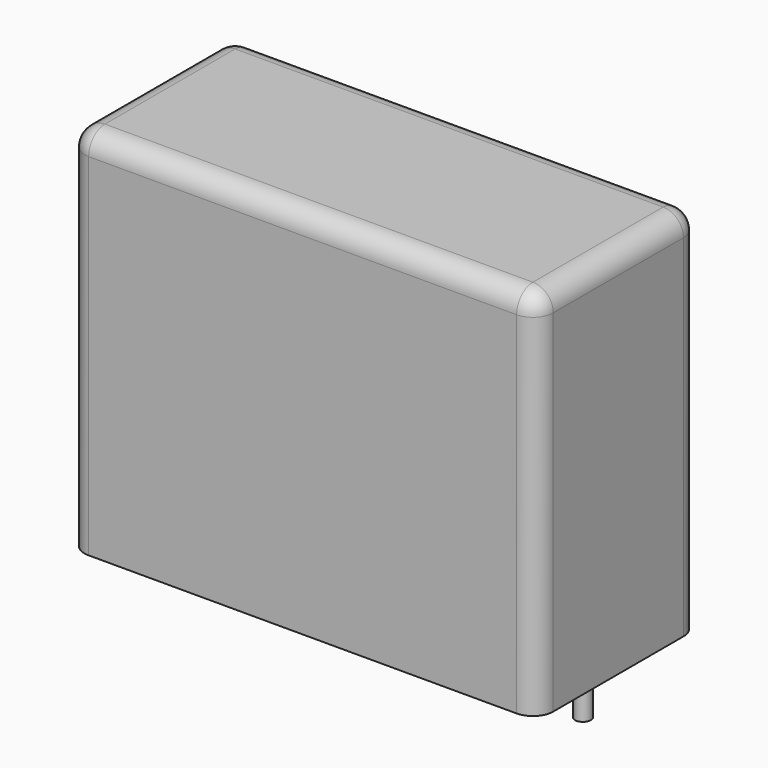
from build123d import *

# Parameters (mm, degrees)
SKETCH_W     = 26.5
SKETCH_H     = 11.5
PAD_DEPTH    = 21
FILLET_R     = 1.15
SKETCH001_R  = 0.45
PAD001_DEPTH = 3.2


with BuildPart() as fillet_body:
    # Sketch → Pad (new body)
    with BuildSketch(Plane.XY.offset(0.1)):
        with Locations((11.25, 0)):
            Rectangle(SKETCH_W, SKETCH_H)
    extrude(amount=PAD_DEPTH)

    # Fillet
    fillet_edges = [fillet_body.edges().sort_by_distance(p)[0] for p in [
        (-2, 0, 21.1),
        (-2, -5.75, 10.6),
        (11.25, -5.75, 21.1),
        (24.5, -5.75, 10.6),
        (24.5, 0, 21.1),
        (24.5, 5.75, 10.6),
        (11.25, 5.75, 21.1),
        (-2, 5.75, 10.6),
    ]]
    fillet(fillet_edges, radius=FILLET_R)


with BuildPart() as pad001:
    # Sketch001 → Pad001 (new body)
    with BuildSketch(Plane.XY.offset(0.5)):
        Circle(SKETCH001_R)
        with Locations((22.5, 0)):
            Circle(SKETCH001_R)
    extrude(amount=-PAD001_DEPTH)


solid = Compound([fillet_body.part, pad001.part])
